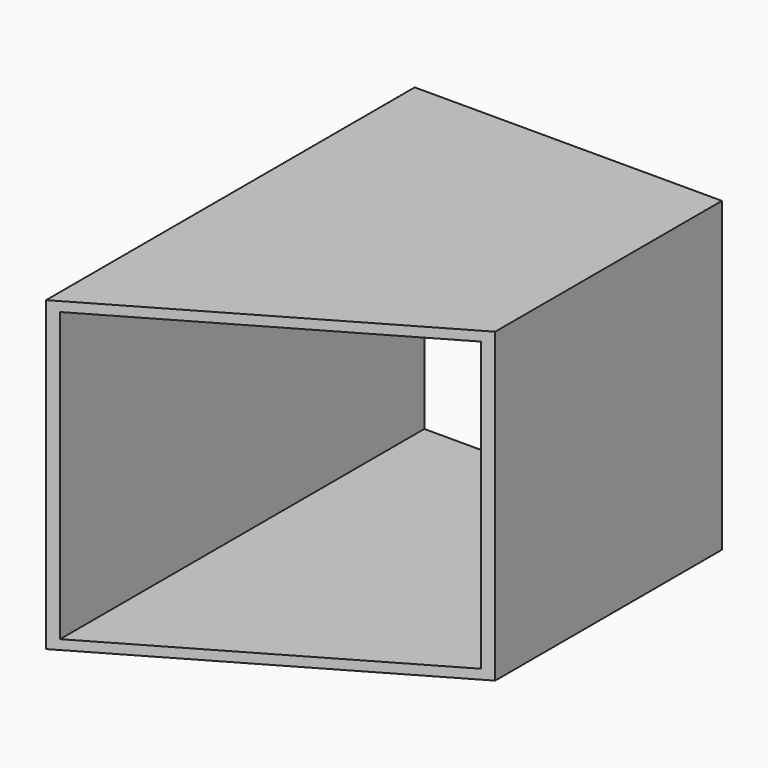
from build123d import *

# Parameters (mm, degrees)
F0_W          = 101.6
F0_H          = 101.6
F0_W_2        = 95.25
F0_H_2        = 95.25
F1_DEPTH      = 152.4
F3_DEPTH      = 50.801
F3_DEPTH_BACK = 50.801


with BuildPart() as f1:
    # F0 (on Front) → F1 (new body)
    with BuildSketch(Plane.XZ):
        Rectangle(F0_W, F0_H)
        Rectangle(F0_W_2, F0_H_2, mode=Mode.SUBTRACT)
    extrude(amount=F1_DEPTH)

    # F2 (on Top) → F3 (cut, two sides)
    with BuildSketch(Plane.XY) as f3_sk:
        Polygon((-50.8, -152.4), (50.8, -152.4), (50.8, -93.7412126503), align=None)
    extrude(amount=-F3_DEPTH, mode=Mode.SUBTRACT)
    extrude(f3_sk.sketch, amount=F3_DEPTH_BACK, mode=Mode.SUBTRACT)


solid = f1.part
